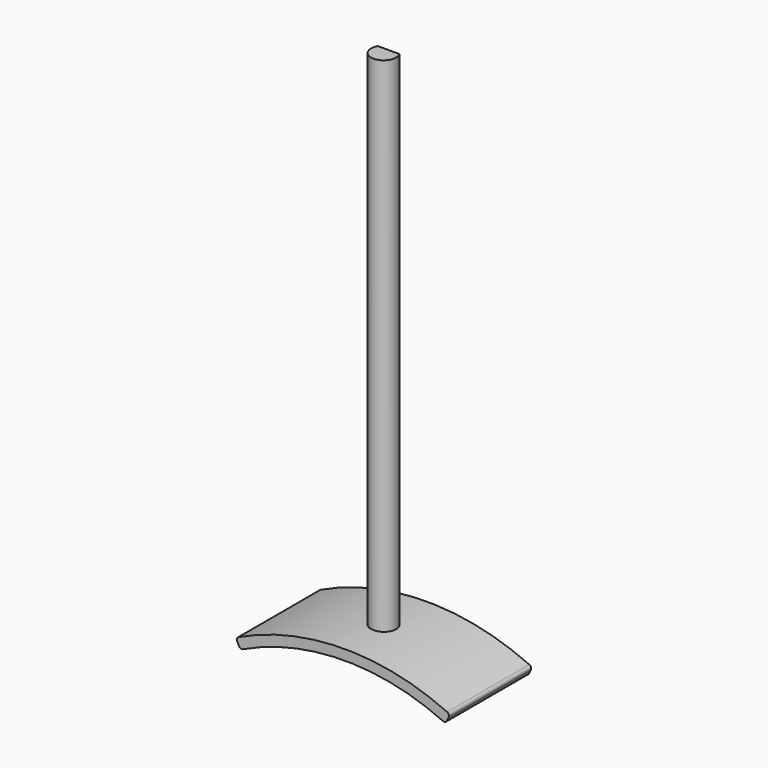
from build123d import *

# Parameters (mm, degrees)
F0_W     = 3.0861
F0_H     = 127
F3_DEPTH = 150.2156
F5_DEPTH = 12.7


with BuildPart() as f1:
    # F0 (on Front) → F1 (revolve)
    with BuildSketch(Plane.XZ):
        with Locations((1.54305, 0)):
            Rectangle(F0_W, F0_H)
    revolve(axis=Axis((0, 0, 0), (0, 0, -1)))

    # F2 (on face) → F3 (cut)
    with BuildSketch(Plane.XY.offset(63.5)):
        with BuildLine():
            Line((-2.661552, 1.5621), (2.661552, 1.5621))
            ThreePointArc((2.661552, 1.5621), (0, 3.0861), (-2.661552, 1.5621))
        make_face()
    extrude(amount=-F3_DEPTH, mode=Mode.SUBTRACT)

    # F4 (on Front) → F5 (join, symmetric)
    with BuildSketch(Plane.XZ):
        with BuildLine():
            ThreePointArc((-24.600739, -69.251744), (0.068726, -63.553068), (24.838002, -68.80096))
            ThreePointArc((24.838002, -68.80096), (25.416693, -68.822331), (25.8433, -68.430738))
            Line((25.8433, -68.430738), (26.274608, -67.510755))
            ThreePointArc((26.274608, -67.510755), (26.299746, -66.924033), (25.900162, -66.493676))
            ThreePointArc((25.900162, -66.493676), (0.045595, -61.013174), (-25.704744, -66.964188))
            ThreePointArc((-25.704744, -66.964188), (-26.096408, -67.40174), (-26.060601, -67.987888))
            Line((-26.060601, -67.987888), (-25.612639, -68.899877))
            ThreePointArc((-25.612639, -68.899877), (-25.178963, -69.283657), (-24.600739, -69.251744))
        make_face()
    extrude(amount=F5_DEPTH, both=True)


solid = f1.part
